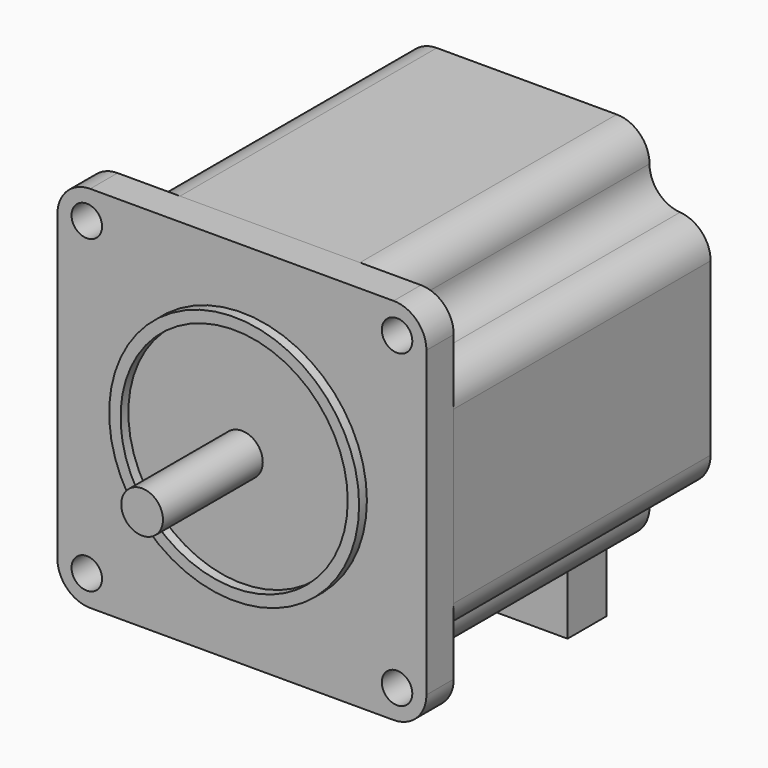
from build123d import *

# Parameters (mm, degrees)
F0_R     = 2.325
F1_DEPTH = 5.2
F2_R     = 19.035
F2_R_2   = 17.3
F3_DEPTH = 1.48
F6_DEPTH = 49.02
F4_R     = 3.175
F7_DEPTH = 19
F8_W     = 32.18
F8_H     = 7.45
F9_DEPTH = 8.5


with BuildPart() as f1:
    # F0 (on Front) → F1 (new body)
    with BuildSketch(Plane.XZ):
        with BuildLine():
            ThreePointArc((28.1, 23.1), (26.635534, 26.635534), (23.1, 28.1))
            Line((23.1, 28.1), (-23.1, 28.1))
            ThreePointArc((-23.1, 28.1), (-26.635534, 26.635534), (-28.1, 23.1))
            Line((-28.1, 23.1), (-28.1, -23.1))
            ThreePointArc((-28.1, -23.1), (-26.635534, -26.635534), (-23.1, -28.1))
            Line((-23.1, -28.1), (23.1, -28.1))
            ThreePointArc((23.1, -28.1), (26.635534, -26.635534), (28.1, -23.1))
            Line((28.1, -23.1), (28.1, 23.1))
        make_face()
        with Locations((-23.625, -23.625)):
            Circle(F0_R, mode=Mode.SUBTRACT)
        with Locations((23.625, -23.625)):
            Circle(F0_R, mode=Mode.SUBTRACT)
        with Locations((-23.625, 23.625)):
            Circle(F0_R, mode=Mode.SUBTRACT)
        with Locations((23.625, 23.625)):
            Circle(F0_R, mode=Mode.SUBTRACT)
    extrude(amount=F1_DEPTH)

    # F2 (on face) → F3 (join)
    with BuildSketch(Plane.XZ.offset(5.2)):
        Circle(F2_R)
        Circle(F2_R_2, mode=Mode.SUBTRACT)
    extrude(amount=F3_DEPTH)

    # F5 (on face) → F6 (join)
    with BuildSketch(Plane(origin=(0, 0, 0), x_dir=(-1, 0, 0), z_dir=(0, 1, 0))):
        with BuildLine():
            Line((13.7, 28), (-13.7, 28))
            ThreePointArc((-13.7, 28), (-17.235534, 26.535534), (-18.7, 23))
            ThreePointArc((-18.7, 23), (-20.042815, 19.590455), (-23.35, 18.012265))
            ThreePointArc((-23.35, 18.012265), (-26.657185, 16.434076), (-28, 13.02453))
            Line((-28, 13.02453), (-28, -13.02453))
            ThreePointArc((-28, -13.02453), (-26.657185, -16.434076), (-23.35, -18.012265))
            ThreePointArc((-23.35, -18.012265), (-20.042815, -19.590455), (-18.7, -23))
            ThreePointArc((-18.7, -23), (-17.235534, -26.535534), (-13.7, -28))
            Line((-13.7, -28), (13.7, -28))
            ThreePointArc((13.7, -28), (17.235534, -26.535534), (18.7, -23))
            ThreePointArc((18.7, -23), (20.042815, -19.590455), (23.35, -18.012265))
            ThreePointArc((23.35, -18.012265), (26.657185, -16.434076), (28, -13.02453))
            Line((28, -13.02453), (28, 13.02453))
            ThreePointArc((28, 13.02453), (26.657185, 16.434076), (23.35, 18.012265))
            ThreePointArc((23.35, 18.012265), (20.042815, 19.590455), (18.7, 23))
            ThreePointArc((18.7, 23), (17.235534, 26.535534), (13.7, 28))
        make_face()
    extrude(amount=F6_DEPTH)

    # F4 (on face) → F7 (join)
    with BuildSketch(Plane.XZ.offset(5.2)):
        Circle(F4_R)
    extrude(amount=F7_DEPTH)

    # F8 (on face) → F9 (join, symmetric)
    with BuildSketch(Plane(origin=(0, 0, -28), x_dir=(1, 0, 0), z_dir=(0, 0, -1))):
        with Locations((0, -40.405)):
            Rectangle(F8_W, F8_H)
    extrude(amount=F9_DEPTH, both=True)


solid = f1.part
